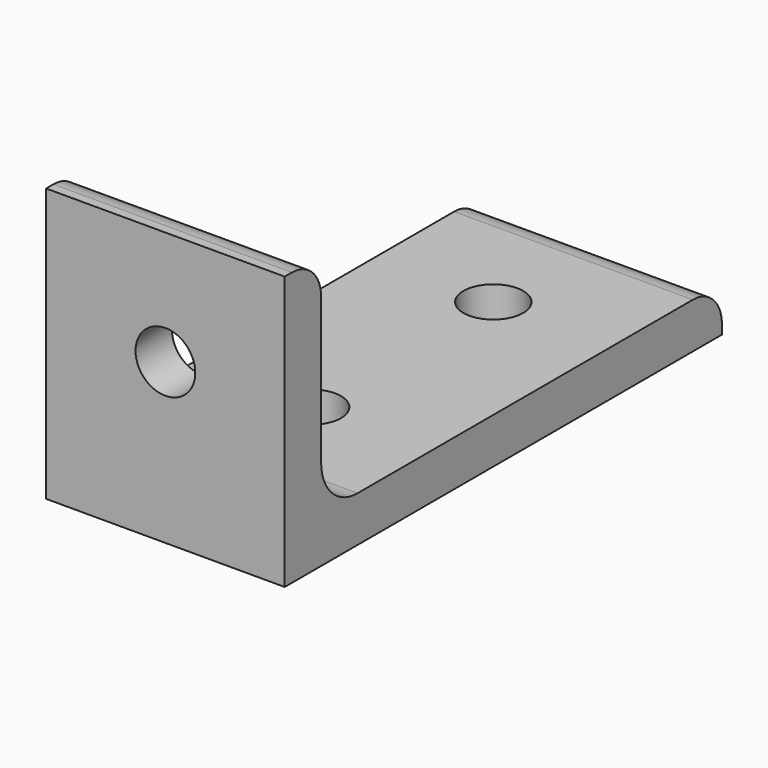
from build123d import *

# Parameters (mm, degrees)
F1_DEPTH = 33.274
F2_R     = 6.35
F3_R     = 5.08
F4_R     = 4.1656
F5_DEPTH = 6.351
F6_R     = 4.1656
F7_DEPTH = 6.351


with BuildPart() as f1:
    # F0 (on Right) → F1 (new body)
    with BuildSketch(Plane.YZ):
        Polygon((0, 38.1), (0, 0), (76.2, 0), (76.2, 6.35), (6.35, 6.35), (6.35, 38.1), align=None)
    extrude(amount=-F1_DEPTH)

    # F2
    f2_edges = [f1.edges().sort_by_distance(p)[0] for p in [
        (-16.637, 6.35, 6.35),
    ]]
    fillet(f2_edges, radius=F2_R)

    # F3
    f3_edges = [f1.edges().sort_by_distance(p)[0] for p in [
        (-16.637, 6.35, 38.1),
        (-16.637, 76.2, 6.35),
    ]]
    fillet(f3_edges, radius=F3_R)

    # F4 (on face) → F5 (cut, through all)
    with BuildSketch(Plane(origin=(0, 6.35, 0), x_dir=(-1, 0, 0), z_dir=(0, 1, 0))):
        with Locations((16.637, 22.225)):
            Circle(F4_R)
    extrude(amount=-F5_DEPTH, mode=Mode.SUBTRACT)

    # F6 (on face) → F7 (cut, through all)
    with BuildSketch(Plane.XY.offset(6.35)):
        with Locations((-16.637, 25.4)):
            Circle(F6_R)
        with Locations((-16.637, 57.15)):
            Circle(F6_R)
    extrude(amount=-F7_DEPTH, mode=Mode.SUBTRACT)


solid = f1.part
